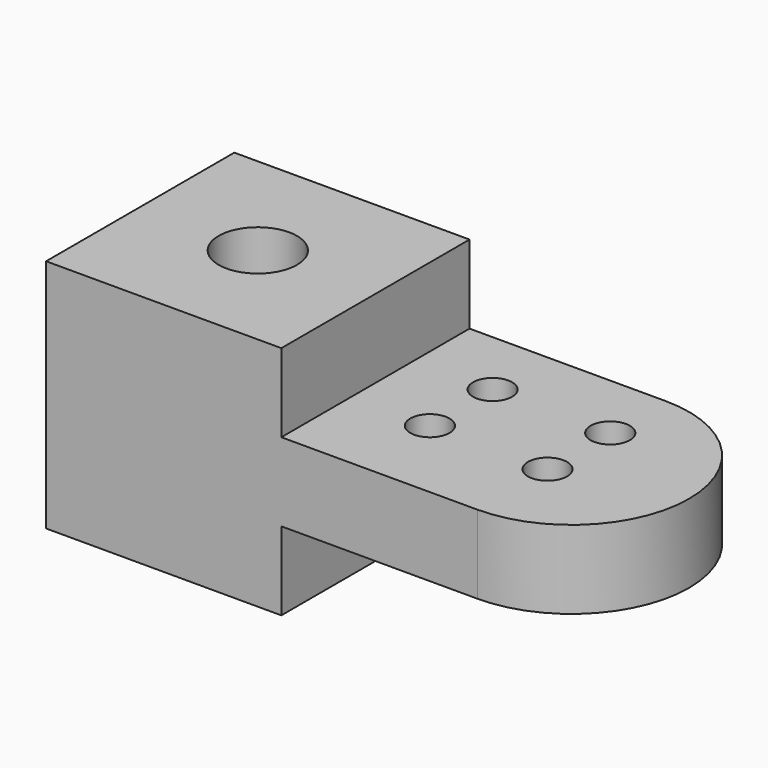
from build123d import *

# Parameters (mm, degrees)
F1_DEPTH = 12.7
F2_W     = 38.1
F2_H     = 12.7
F3_DEPTH = 38.1
F4_R     = 6.35
F5_DEPTH = 38.101
F6_D     = 6.35


with BuildPart() as f1:
    # F0 (on Top) → F1 (new body)
    with BuildSketch(Plane.XY):
        with BuildLine():
            Line((31.75, 38.1), (0, 38.1))
            Line((0, 38.1), (0, 0))
            Line((0, 0), (31.75, 0))
            ThreePointArc((31.75, 0), (50.8, 19.05), (31.75, 38.1))
        make_face()
    extrude(amount=F1_DEPTH)

    # F2 (on face) → F3 (join)
    with BuildSketch(Plane(origin=(0, 0, 0), x_dir=(0, -1, 0), z_dir=(-1, 0, 0))):
        with Locations((-19.05, 19.05)):
            Rectangle(F2_W, F2_H)
        with Locations((-19.05, 6.35)):
            Rectangle(F2_W, F2_H)
        with Locations((-19.05, -6.35)):
            Rectangle(F2_W, F2_H)
    extrude(amount=F3_DEPTH)

    # F4 (on face) → F5 (cut, through all)
    with BuildSketch(Plane.XY.offset(25.4)):
        with Locations((-19.05, 19.05)):
            Circle(F4_R)
    extrude(amount=-F5_DEPTH, mode=Mode.SUBTRACT)

    # F6 (through all)
    with Locations(Plane.XY.offset(25.4)):
        with Locations((12.7, 26.900102), (12.7, 14.200102), (31.75, 26.900102), (31.75, 14.200102)):
            Hole(F6_D / 2)


solid = f1.part
